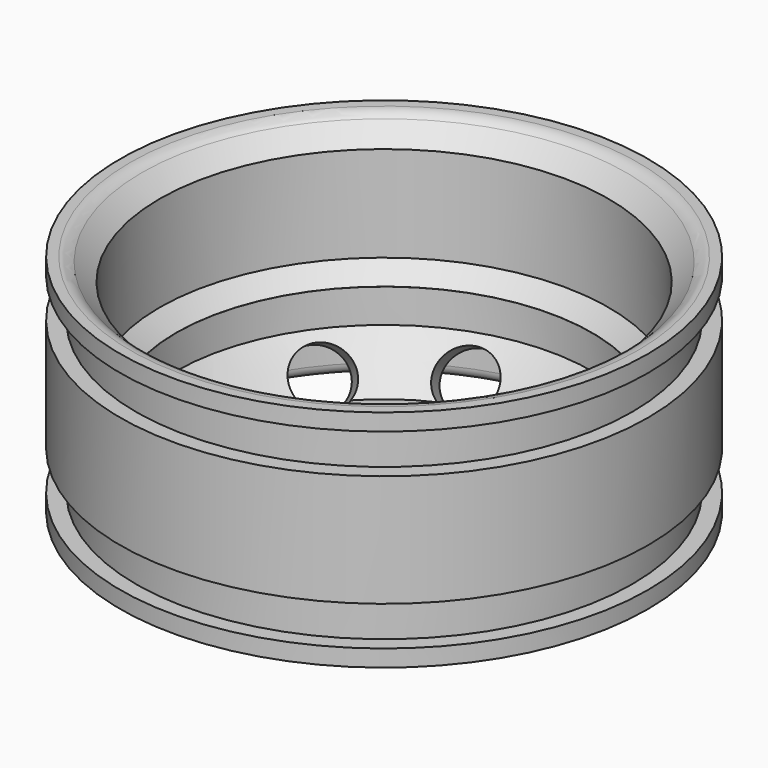
from build123d import *

# Parameters (mm, degrees)
CYLINDER091_R               = 10.1
CYLINDER091_DEPTH           = 26
CYLINDER077_R               = 1.1
CYLINDER077_DEPTH           = 10
CYLINDER076_R               = 1.1
CYLINDER076_DEPTH           = 10
FUSION040_PLACEMENT_ANGLE   = 54
CYLINDER079_R               = 1.1
CYLINDER079_DEPTH           = 10
CYLINDER078_R               = 1.1
CYLINDER078_DEPTH           = 10
FUSION041_PLACEMENT_ANGLE   = 162
CYLINDER081_R               = 1.1
CYLINDER081_DEPTH           = 10
CYLINDER080_R               = 1.1
CYLINDER080_DEPTH           = 10
FUSION042_PLACEMENT_ANGLE   = 126
CYLINDER083_R               = 1.1
CYLINDER083_DEPTH           = 10
CYLINDER082_R               = 1.1
CYLINDER082_DEPTH           = 10
FUSION043_PLACEMENT_ANGLE   = 90
CYLINDER075_R               = 1.1
CYLINDER075_DEPTH           = 10
CYLINDER074_R               = 1.1
CYLINDER074_DEPTH           = 10
FUSION039_PLACEMENT_ANGLE   = 18
CYLINDER067_R               = 2.5
CYLINDER067_DEPTH           = 8
CYLINDER067_PLACEMENT_ANGLE = 58
CYLINDER066_R               = 2.5
CYLINDER066_DEPTH           = 8
CYLINDER066_PLACEMENT_ANGLE = 58
FUSION034_PLACEMENT_ANGLE   = 36
CYLINDER069_R               = 2.5
CYLINDER069_DEPTH           = 8
CYLINDER069_PLACEMENT_ANGLE = 58
CYLINDER068_R               = 2.5
CYLINDER068_DEPTH           = 8
CYLINDER068_PLACEMENT_ANGLE = 58
FUSION035_PLACEMENT_ANGLE   = 72
CYLINDER071_R               = 2.5
CYLINDER071_DEPTH           = 8
CYLINDER071_PLACEMENT_ANGLE = 58
CYLINDER070_R               = 2.5
CYLINDER070_DEPTH           = 8
CYLINDER070_PLACEMENT_ANGLE = 58
FUSION036_PLACEMENT_ANGLE   = 108
CYLINDER073_R               = 2.5
CYLINDER073_DEPTH           = 8
CYLINDER073_PLACEMENT_ANGLE = 58
CYLINDER072_R               = 2.5
CYLINDER072_DEPTH           = 8
CYLINDER072_PLACEMENT_ANGLE = 58
FUSION037_PLACEMENT_ANGLE   = 144
CYLINDER065_R               = 2.5
CYLINDER065_DEPTH           = 8
CYLINDER065_PLACEMENT_ANGLE = 58
CYLINDER064_R               = 2.5
CYLINDER064_DEPTH           = 8
CYLINDER064_PLACEMENT_ANGLE = 58
CYLINDER063_R               = 20
CYLINDER063_DEPTH           = 12
CYLINDER062_R               = 10
CYLINDER062_DEPTH           = 26
CYLINDER061_R               = 20.5
CYLINDER061_DEPTH           = 10
CYLINDER060_R               = 18.5
CYLINDER060_DEPTH           = 20
CYLINDER059_R               = 22.1
CYLINDER059_DEPTH           = 17
CYLINDER058_R               = 23.5
CYLINDER058_DEPTH           = 17
CYLINDER057_R               = 23.5
CYLINDER057_DEPTH           = 20
CYLINDER056_R               = 22
CYLINDER056_DEPTH           = 17
CYLINDER055_R               = 23.5
CYLINDER055_DEPTH           = 10
FILLET007_R                 = 1
CHAMFER003_SIZE             = 1.49
CHAMFER002_SIZE             = 2
FILLET006_R                 = 1.5
FILLET005_R                 = 1.5


with BuildPart() as cylinder091:
    # Cylinder091 → Cylinder091 (new body)
    with BuildSketch(Plane.XY):
        Circle(CYLINDER091_R)
    extrude(amount=CYLINDER091_DEPTH)


with BuildPart() as cylinder077:
    # Cylinder077 → Cylinder077 (new body)
    with BuildSketch(Plane(origin=(-12.5, 0, 13), x_dir=(1, 0, 0), z_dir=(0, 0, 1))):
        Circle(CYLINDER077_R)
    extrude(amount=CYLINDER077_DEPTH)


with BuildPart() as fusion040:
    # Cylinder076 → Cylinder076 (new body)
    with BuildSketch(Plane(origin=(12.5, 0, 13), x_dir=(1, 0, 0), z_dir=(0, 0, 1))):
        Circle(CYLINDER076_R)
    extrude(amount=CYLINDER076_DEPTH)

    # Fusion040: union Cylinder077
    add(cylinder077.part)


with BuildPart() as fusion040_1:
    # Fusion040 placement: moved
    add(fusion040.part.rotate(Axis((0, 0, 0), (0, 0, 1)), FUSION040_PLACEMENT_ANGLE))


with BuildPart() as cylinder079:
    # Cylinder079 → Cylinder079 (new body)
    with BuildSketch(Plane(origin=(-12.5, 0, 13), x_dir=(1, 0, 0), z_dir=(0, 0, 1))):
        Circle(CYLINDER079_R)
    extrude(amount=CYLINDER079_DEPTH)


with BuildPart() as fusion041:
    # Cylinder078 → Cylinder078 (new body)
    with BuildSketch(Plane(origin=(12.5, 0, 13), x_dir=(1, 0, 0), z_dir=(0, 0, 1))):
        Circle(CYLINDER078_R)
    extrude(amount=CYLINDER078_DEPTH)

    # Fusion041: union Cylinder079
    add(cylinder079.part)


with BuildPart() as fusion041_1:
    # Fusion041 placement: moved
    add(fusion041.part.rotate(Axis((0, 0, 0), (0, 0, 1)), FUSION041_PLACEMENT_ANGLE))


with BuildPart() as cylinder081:
    # Cylinder081 → Cylinder081 (new body)
    with BuildSketch(Plane(origin=(-12.5, 0, 13), x_dir=(1, 0, 0), z_dir=(0, 0, 1))):
        Circle(CYLINDER081_R)
    extrude(amount=CYLINDER081_DEPTH)


with BuildPart() as fusion042:
    # Cylinder080 → Cylinder080 (new body)
    with BuildSketch(Plane(origin=(12.5, 0, 13), x_dir=(1, 0, 0), z_dir=(0, 0, 1))):
        Circle(CYLINDER080_R)
    extrude(amount=CYLINDER080_DEPTH)

    # Fusion042: union Cylinder081
    add(cylinder081.part)


with BuildPart() as fusion042_1:
    # Fusion042 placement: moved
    add(fusion042.part.rotate(Axis((0, 0, 0), (0, 0, 1)), FUSION042_PLACEMENT_ANGLE))


with BuildPart() as cylinder083:
    # Cylinder083 → Cylinder083 (new body)
    with BuildSketch(Plane(origin=(-12.5, 0, 13), x_dir=(1, 0, 0), z_dir=(0, 0, 1))):
        Circle(CYLINDER083_R)
    extrude(amount=CYLINDER083_DEPTH)


with BuildPart() as fusion043:
    # Cylinder082 → Cylinder082 (new body)
    with BuildSketch(Plane(origin=(12.5, 0, 13), x_dir=(1, 0, 0), z_dir=(0, 0, 1))):
        Circle(CYLINDER082_R)
    extrude(amount=CYLINDER082_DEPTH)

    # Fusion043: union Cylinder083
    add(cylinder083.part)


with BuildPart() as fusion043_1:
    # Fusion043 placement: moved
    add(fusion043.part.rotate(Axis((0, 0, 0), (0, 0, 1)), FUSION043_PLACEMENT_ANGLE))


with BuildPart() as cylinder075:
    # Cylinder075 → Cylinder075 (new body)
    with BuildSketch(Plane(origin=(-12.5, 0, 13), x_dir=(1, 0, 0), z_dir=(0, 0, 1))):
        Circle(CYLINDER075_R)
    extrude(amount=CYLINDER075_DEPTH)


with BuildPart() as fusion038:
    # Cylinder074 → Cylinder074 (new body)
    with BuildSketch(Plane(origin=(12.5, 0, 13), x_dir=(1, 0, 0), z_dir=(0, 0, 1))):
        Circle(CYLINDER074_R)
    extrude(amount=CYLINDER074_DEPTH)

    # Fusion039: union Cylinder075
    add(cylinder075.part)


with BuildPart() as fusion038_1:
    # Fusion039 placement: moved
    add(fusion038.part.rotate(Axis((0, 0, 0), (0, 0, 1)), FUSION039_PLACEMENT_ANGLE))

    # Fusion038: union Fusion040, Fusion041, Fusion042, Fusion043
    add(fusion040_1.part)
    add(fusion041_1.part)
    add(fusion042_1.part)
    add(fusion043_1.part)


with BuildPart() as cylinder067:
    # Cylinder067 → Cylinder067 (new body)
    with BuildSketch(Plane.XY):
        Circle(CYLINDER067_R)
    extrude(amount=CYLINDER067_DEPTH)


with BuildPart() as cylinder067_1:
    # Cylinder067 placement: moved
    add(cylinder067.part.moved(Location((12, 0, 16))).rotate(Axis((12, 0, 16), (0, 1, 0)), CYLINDER067_PLACEMENT_ANGLE))


with BuildPart() as part_mirroring006:
    # Part__Mirroring006: instance of Cylinder067
    add(cylinder067_1.part.mirror(Plane(origin=(0, 0, 0), x_dir=(0, -1, 0), z_dir=(1, 0, 0))))


with BuildPart() as fusion034:
    # Cylinder066 → Cylinder066 (new body)
    with BuildSketch(Plane.XY):
        Circle(CYLINDER066_R)
    extrude(amount=CYLINDER066_DEPTH)


with BuildPart() as fusion034_1:
    # Cylinder066 placement: moved
    add(fusion034.part.moved(Location((12, 0, 16))).rotate(Axis((12, 0, 16), (0, 1, 0)), CYLINDER066_PLACEMENT_ANGLE))

    # Fusion034: union Part__Mirroring006
    add(part_mirroring006.part)


with BuildPart() as fusion034_2:
    # Fusion034 placement: moved
    add(fusion034_1.part.rotate(Axis((0, 0, 0), (0, 0, 1)), FUSION034_PLACEMENT_ANGLE))


with BuildPart() as cylinder069:
    # Cylinder069 → Cylinder069 (new body)
    with BuildSketch(Plane.XY):
        Circle(CYLINDER069_R)
    extrude(amount=CYLINDER069_DEPTH)


with BuildPart() as cylinder069_1:
    # Cylinder069 placement: moved
    add(cylinder069.part.moved(Location((12, 0, 16))).rotate(Axis((12, 0, 16), (0, 1, 0)), CYLINDER069_PLACEMENT_ANGLE))


with BuildPart() as part_mirroring007:
    # Part__Mirroring007: instance of Cylinder069
    add(cylinder069_1.part.mirror(Plane(origin=(0, 0, 0), x_dir=(0, -1, 0), z_dir=(1, 0, 0))))


with BuildPart() as fusion035:
    # Cylinder068 → Cylinder068 (new body)
    with BuildSketch(Plane.XY):
        Circle(CYLINDER068_R)
    extrude(amount=CYLINDER068_DEPTH)


with BuildPart() as fusion035_1:
    # Cylinder068 placement: moved
    add(fusion035.part.moved(Location((12, 0, 16))).rotate(Axis((12, 0, 16), (0, 1, 0)), CYLINDER068_PLACEMENT_ANGLE))

    # Fusion035: union Part__Mirroring007
    add(part_mirroring007.part)


with BuildPart() as fusion035_2:
    # Fusion035 placement: moved
    add(fusion035_1.part.rotate(Axis((0, 0, 0), (0, 0, 1)), FUSION035_PLACEMENT_ANGLE))


with BuildPart() as cylinder071:
    # Cylinder071 → Cylinder071 (new body)
    with BuildSketch(Plane.XY):
        Circle(CYLINDER071_R)
    extrude(amount=CYLINDER071_DEPTH)


with BuildPart() as cylinder071_1:
    # Cylinder071 placement: moved
    add(cylinder071.part.moved(Location((12, 0, 16))).rotate(Axis((12, 0, 16), (0, 1, 0)), CYLINDER071_PLACEMENT_ANGLE))


with BuildPart() as part_mirroring008:
    # Part__Mirroring008: instance of Cylinder071
    add(cylinder071_1.part.mirror(Plane(origin=(0, 0, 0), x_dir=(0, -1, 0), z_dir=(1, 0, 0))))


with BuildPart() as fusion036:
    # Cylinder070 → Cylinder070 (new body)
    with BuildSketch(Plane.XY):
        Circle(CYLINDER070_R)
    extrude(amount=CYLINDER070_DEPTH)


with BuildPart() as fusion036_1:
    # Cylinder070 placement: moved
    add(fusion036.part.moved(Location((12, 0, 16))).rotate(Axis((12, 0, 16), (0, 1, 0)), CYLINDER070_PLACEMENT_ANGLE))

    # Fusion036: union Part__Mirroring008
    add(part_mirroring008.part)


with BuildPart() as fusion036_2:
    # Fusion036 placement: moved
    add(fusion036_1.part.rotate(Axis((0, 0, 0), (0, 0, 1)), FUSION036_PLACEMENT_ANGLE))


with BuildPart() as cylinder073:
    # Cylinder073 → Cylinder073 (new body)
    with BuildSketch(Plane.XY):
        Circle(CYLINDER073_R)
    extrude(amount=CYLINDER073_DEPTH)


with BuildPart() as cylinder073_1:
    # Cylinder073 placement: moved
    add(cylinder073.part.moved(Location((12, 0, 16))).rotate(Axis((12, 0, 16), (0, 1, 0)), CYLINDER073_PLACEMENT_ANGLE))


with BuildPart() as part_mirroring009:
    # Part__Mirroring009: instance of Cylinder073
    add(cylinder073_1.part.mirror(Plane(origin=(0, 0, 0), x_dir=(0, -1, 0), z_dir=(1, 0, 0))))


with BuildPart() as fusion037:
    # Cylinder072 → Cylinder072 (new body)
    with BuildSketch(Plane.XY):
        Circle(CYLINDER072_R)
    extrude(amount=CYLINDER072_DEPTH)


with BuildPart() as fusion037_1:
    # Cylinder072 placement: moved
    add(fusion037.part.moved(Location((12, 0, 16))).rotate(Axis((12, 0, 16), (0, 1, 0)), CYLINDER072_PLACEMENT_ANGLE))

    # Fusion037: union Part__Mirroring009
    add(part_mirroring009.part)


with BuildPart() as fusion037_2:
    # Fusion037 placement: moved
    add(fusion037_1.part.rotate(Axis((0, 0, 0), (0, 0, 1)), FUSION037_PLACEMENT_ANGLE))


with BuildPart() as cylinder065:
    # Cylinder065 → Cylinder065 (new body)
    with BuildSketch(Plane.XY):
        Circle(CYLINDER065_R)
    extrude(amount=CYLINDER065_DEPTH)


with BuildPart() as cylinder065_1:
    # Cylinder065 placement: moved
    add(cylinder065.part.moved(Location((12, 0, 16))).rotate(Axis((12, 0, 16), (0, 1, 0)), CYLINDER065_PLACEMENT_ANGLE))


with BuildPart() as part_mirroring005:
    # Part__Mirroring005: instance of Cylinder065
    add(cylinder065_1.part.mirror(Plane(origin=(0, 0, 0), x_dir=(0, -1, 0), z_dir=(1, 0, 0))))


with BuildPart() as fusion032:
    # Cylinder064 → Cylinder064 (new body)
    with BuildSketch(Plane.XY):
        Circle(CYLINDER064_R)
    extrude(amount=CYLINDER064_DEPTH)


with BuildPart() as fusion032_1:
    # Cylinder064 placement: moved
    add(fusion032.part.moved(Location((12, 0, 16))).rotate(Axis((12, 0, 16), (0, 1, 0)), CYLINDER064_PLACEMENT_ANGLE))

    # Fusion033: union Part__Mirroring005
    add(part_mirroring005.part)

    # Fusion032: union Fusion034, Fusion035, Fusion036, Fusion037
    add(fusion034_2.part)
    add(fusion035_2.part)
    add(fusion036_2.part)
    add(fusion037_2.part)


with BuildPart() as fusion032_2:
    # Fusion032 placement: moved
    add(fusion032_1.part.moved(Location((0, 0, -1))))


with BuildPart() as cylinder063:
    # Cylinder063 → Cylinder063 (new body)
    with BuildSketch(Plane.XY):
        Circle(CYLINDER063_R)
    extrude(amount=CYLINDER063_DEPTH)


with BuildPart() as cone003:
    # Cone003 → Cone003 (revolve)
    with BuildSketch(Plane(origin=(0, 0, 9), x_dir=(1, 0, 0), z_dir=(0, -1, 0))):
        Polygon((0, 0), (24, 0), (15, 10), (0, 10), align=None)
    revolve(axis=Axis((0, 0, 9), (0, 0, 1)))


with BuildPart() as cylinder062:
    # Cylinder062 → Cylinder062 (new body)
    with BuildSketch(Plane.XY):
        Circle(CYLINDER062_R)
    extrude(amount=CYLINDER062_DEPTH)


with BuildPart() as cut024:
    # Cone002 → Cone002 (revolve)
    with BuildSketch(Plane(origin=(0, 0, 15), x_dir=(1, 0, 0), z_dir=(0, -1, 0))):
        Polygon((0, 0), (21, 0), (15, 7), (0, 7), align=None)
    revolve(axis=Axis((0, 0, 15), (0, 0, 1)))

    # Cut025: cut Cylinder062
    add(cylinder062.part, mode=Mode.SUBTRACT)

    # Cut024: cut Cone003
    add(cone003.part, mode=Mode.SUBTRACT)


with BuildPart() as cylinder061:
    # Cylinder061 → Cylinder061 (new body)
    with BuildSketch(Plane.XY.offset(15)):
        Circle(CYLINDER061_R)
    extrude(amount=CYLINDER061_DEPTH)


with BuildPart() as cylinder060:
    # Cylinder060 → Cylinder060 (new body)
    with BuildSketch(Plane.XY):
        Circle(CYLINDER060_R)
    extrude(amount=CYLINDER060_DEPTH)


with BuildPart() as cylinder059:
    # Cylinder059 → Cylinder059 (new body)
    with BuildSketch(Plane.XY):
        Circle(CYLINDER059_R)
    extrude(amount=CYLINDER059_DEPTH)


with BuildPart() as cut023:
    # Cylinder058 → Cylinder058 (new body)
    with BuildSketch(Plane.XY):
        Circle(CYLINDER058_R)
    extrude(amount=CYLINDER058_DEPTH)

    # Cut023: cut Cylinder059
    add(cylinder059.part, mode=Mode.SUBTRACT)


with BuildPart() as cut023_1:
    # Cut023 placement: moved
    add(cut023.part.moved(Location((0, 0, 1.5))))


with BuildPart() as cut022:
    # Cylinder057 → Cylinder057 (new body)
    with BuildSketch(Plane.XY):
        Circle(CYLINDER057_R)
    extrude(amount=CYLINDER057_DEPTH)

    # Cut022: cut Cut023
    add(cut023_1.part, mode=Mode.SUBTRACT)


with BuildPart() as cylinder056:
    # Cylinder056 → Cylinder056 (new body)
    with BuildSketch(Plane.XY):
        Circle(CYLINDER056_R)
    extrude(amount=CYLINDER056_DEPTH)


with BuildPart() as rim_internal001:
    # Cylinder055 → Cylinder055 (new body)
    with BuildSketch(Plane.XY.offset(0.5)):
        Circle(CYLINDER055_R)
    extrude(amount=CYLINDER055_DEPTH)

    # Cut021: cut Cylinder056
    add(cylinder056.part, mode=Mode.SUBTRACT)


with BuildPart() as rim_internal001_1:
    # Cut021 placement: moved
    add(rim_internal001.part.moved(Location((0, 0, 4.5))))

    # Fusion031: union Cut022
    add(cut022.part)

    # Cut020: cut Cylinder060
    add(cylinder060.part, mode=Mode.SUBTRACT)

    # Cut019: cut Cylinder061
    add(cylinder061.part, mode=Mode.SUBTRACT)

    # Fillet007
    fillet007_edges = [rim_internal001_1.edges().sort_by_distance(p)[0] for p in [
        (-14.495689, 14.495689, 20),
    ]]
    fillet(fillet007_edges, radius=FILLET007_R)

    # Fusion030: union Cut024
    add(cut024.part)

    # Cut018: cut Cylinder063
    add(cylinder063.part, mode=Mode.SUBTRACT)

    # Chamfer003
    chamfer003_edges = [rim_internal001_1.edges().sort_by_distance(p)[0] for p in [
        (-20, 0, 12),
    ]]
    chamfer(chamfer003_edges, length=CHAMFER003_SIZE)

    # Chamfer002
    chamfer002_edges = [rim_internal001_1.edges().sort_by_distance(p)[0] for p in [
        (-20, 0, 0),
    ]]
    chamfer(chamfer002_edges, length=CHAMFER002_SIZE)

    # Cut017: cut Fusion032
    add(fusion032_2.part, mode=Mode.SUBTRACT)

    # Cut016: cut Fusion038
    add(fusion038_1.part, mode=Mode.SUBTRACT)

    # Fillet006
    fillet006_edges = [rim_internal001_1.edges().sort_by_distance(p)[0] for p in [
        (-15, 0, 22),
    ]]
    fillet(fillet006_edges, radius=FILLET006_R)

    # Fillet005
    fillet005_edges = [rim_internal001_1.edges().sort_by_distance(p)[0] for p in [
        (-22, 0, 0),
    ]]
    fillet(fillet005_edges, radius=FILLET005_R)


with BuildPart() as rim_external:
    # Part__Mirroring010: instance of rim_internal001
    add(rim_internal001_1.part.mirror(Plane(origin=(0, 0, 0), x_dir=(0, 1, 0), z_dir=(0, 0, 1))))


with BuildPart() as rim_external_1:
    # Part__Mirroring010 placement: moved
    add(rim_external.part.moved(Location((0, 0, 44))))

    # Cut032: cut Cylinder091
    add(cylinder091.part, mode=Mode.SUBTRACT)


solid = rim_external_1.part
